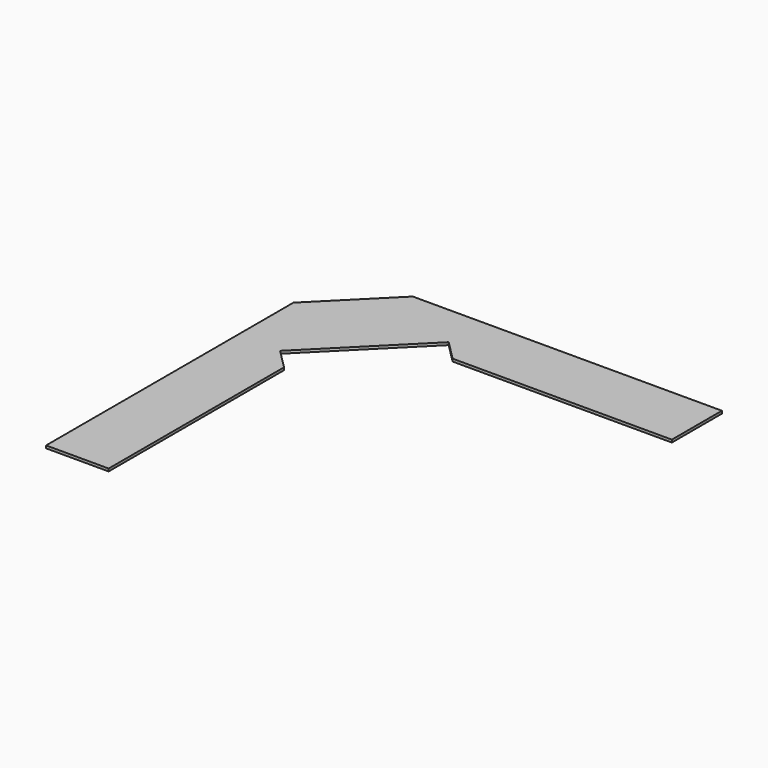
from build123d import *

# Parameters (mm, degrees)
F1_DEPTH = 25


with BuildPart() as f1:
    # F0 (on Top) → F1 (new body)
    with BuildSketch(Plane.XY):
        Polygon((3600, 0), (1158.875369, 0), (1308.147545, -410.121933), (1498.025612, -600), (2577.746033, -600), (3600, -600), align=None)
        Polygon((636.074245, 0), (0, -636.074245), (0, -1158.875369), (410.121933, -1308.147545), (1308.147545, -410.121933), (1158.875369, 0), align=None)
        Polygon((410.121933, -1308.147545), (0, -1158.875369), (0, -3600), (600, -3600), (600, -1498.025612), align=None)
    extrude(amount=F1_DEPTH)


solid = f1.part
